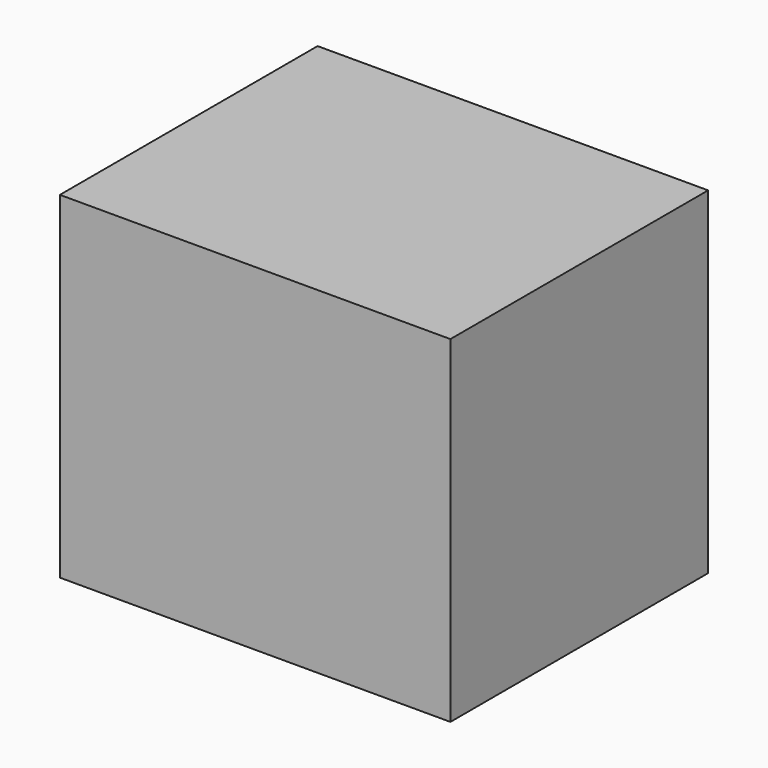
from build123d import *

# Parameters (mm, degrees)
F0_W     = 22
F0_H     = 23.896645
F0_W_2   = 6.969606
F1_DEPTH = 25


with BuildPart() as f1:
    # F0 (on Top) → F1 (new body)
    with BuildSketch(Plane.XY):
        with Locations((-22.55366, 2.962313)):
            Rectangle(F0_W, F0_H)
        with Locations((-8.068857, 2.962313)):
            Rectangle(F0_W_2, F0_H)
    extrude(amount=F1_DEPTH)


solid = f1.part
